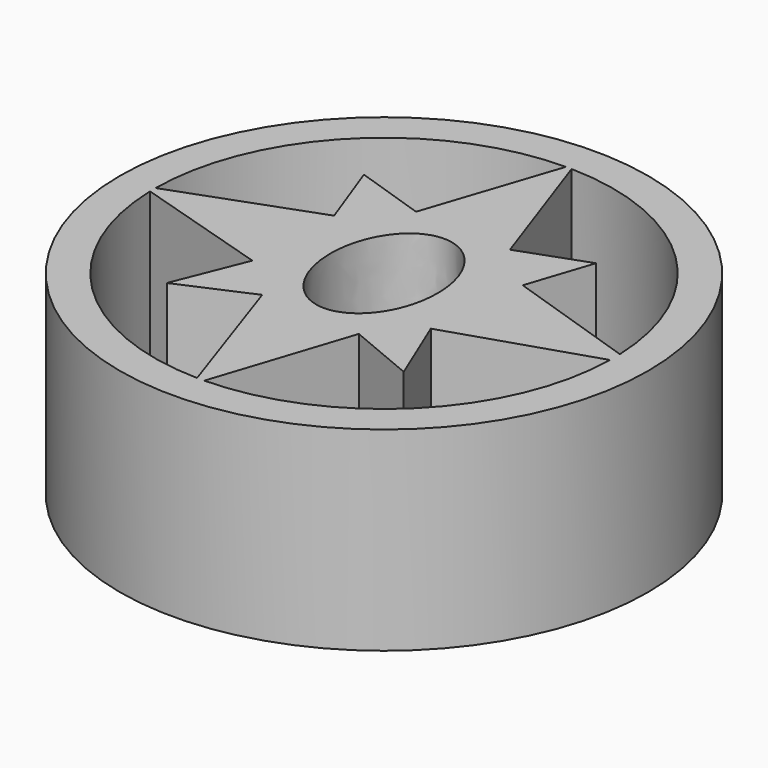
from build123d import *

# Parameters (mm, degrees)
F0_R     = 34.437214
F1_DEPTH = 25.4


with BuildPart() as f1:
    # F0 (on Top) → F1 (new body)
    with BuildSketch(Plane.XY):
        with Locations((36.54274, 37.298068)):
            Circle(F0_R)
        with BuildLine():
            ThreePointArc((36.091847, 7.393817), (15.503954, 16.04161), (6.644714, 36.539403))
            Line((6.644714, 36.539403), (24.322003, 31.11908))
            Line((24.322003, 31.11908), (20.602845, 21.821184))
            Line((20.602845, 21.821184), (29.823259, 25.850274))
            Line((29.823259, 25.850274), (36.091847, 7.393817))
        make_face(mode=Mode.SUBTRACT)
        with BuildLine():
            ThreePointArc((66.44555, 36.760054), (57.673692, 16.13323), (37.032839, 7.394434))
            Line((37.032839, 7.394434), (42.882252, 25.276756))
            Line((42.882252, 25.276756), (51.676512, 21.596339))
            Line((51.676512, 21.596339), (47.878616, 30.756688))
            Line((47.878616, 30.756688), (66.44555, 36.760054))
        make_face(mode=Mode.SUBTRACT)
        with BuildLine():
            ThreePointArc((6.63553, 37.460371), (15.379268, 58.43039), (36.336385, 67.205007))
            Line((36.336385, 67.205007), (30.598084, 49.947318))
            Line((30.598084, 49.947318), (21.344804, 53.024097))
            Line((21.344804, 53.024097), (24.631934, 44.058651))
            Line((24.631934, 44.058651), (6.63553, 37.460371))
        make_face(mode=Mode.SUBTRACT)
        with BuildLine():
            add(Edge.make_bspline(
                [(29.539896, 37.298068), (29.539896, 20.327942), (40.044161, 28.813005), (50.548427, 37.298068), (40.044161, 45.783132), (29.539896, 54.268195), (29.539896, 37.298068)],
                knots=[4.712389, 4.712389, 4.712389, 6.806784, 6.806784, 8.901179, 8.901179, 10.995574, 10.995574, 10.995574], degree=2, weights=[1, 0.5, 1, 0.5, 1, 0.5, 1]))
        make_face(mode=Mode.SUBTRACT)
        with BuildLine():
            ThreePointArc((37.076785, 67.20095), (57.496346, 58.638497), (66.430851, 38.378964))
            Line((66.430851, 38.378964), (49.212005, 44.071041))
            Line((49.212005, 44.071041), (52.009396, 52.533301))
            Line((52.009396, 52.533301), (43.297932, 49.384959))
            Line((43.297932, 49.384959), (37.076785, 67.20095))
        make_face(mode=Mode.SUBTRACT)
    extrude(amount=F1_DEPTH)


solid = f1.part
